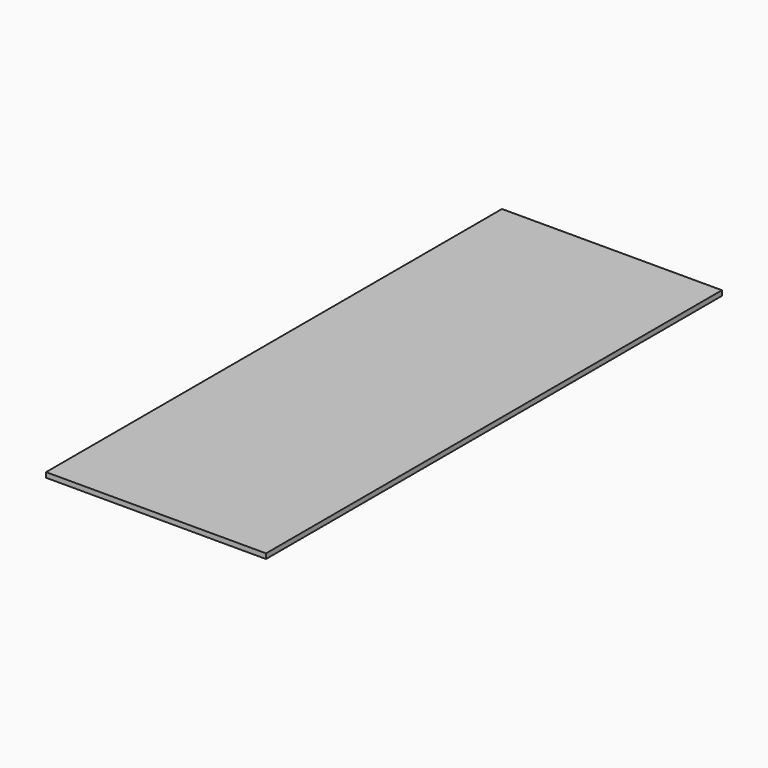
from build123d import *

# Parameters (mm, degrees)
SKETCH_W  = 44
SKETCH_H  = 114
PAD_DEPTH = 1


with BuildPart() as part:
    # Sketch → Pad (new body)
    with BuildSketch(Plane.XY):
        with Locations((0, 57)):
            Rectangle(SKETCH_W, SKETCH_H)
    extrude(amount=PAD_DEPTH)


solid = part.part
